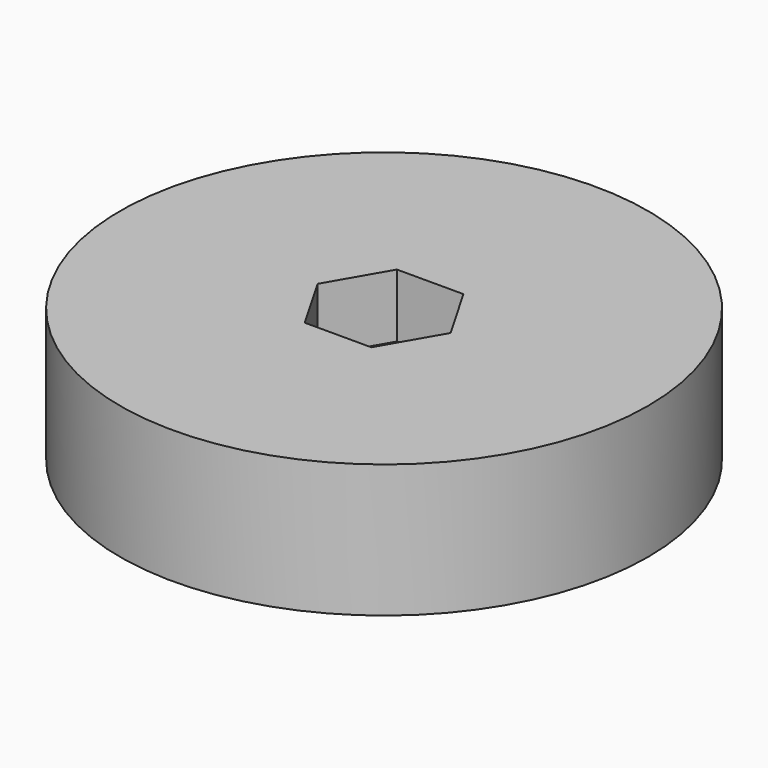
from build123d import *

# Parameters (mm, degrees)
BOX027_W          = 40
BOX027_H          = 50
BOX027_DEPTH      = 0.7
CYLINDER062_R     = 4
CYLINDER062_DEPTH = 2.75
CYLINDER019_R     = 1.6
CYLINDER019_DEPTH = 22.75
CYLINDER018_R     = 4
CYLINDER018_DEPTH = 2.75
PRISM003_DEPTH    = 3
CYLINDER017_R     = 12.5
CYLINDER017_DEPTH = 7


with BuildPart() as cube027:
    # Box027 → Box027 (new body)
    with BuildSketch(Plane(origin=(-10, 0, 15), x_dir=(1, 0, 0), z_dir=(0, 0, 1))):
        with Locations((20, 25)):
            Rectangle(BOX027_W, BOX027_H)
    extrude(amount=BOX027_DEPTH)


with BuildPart() as cylinder062:
    # Cylinder062 → Cylinder062 (new body)
    with BuildSketch(Plane(origin=(10, 20, 15.2), x_dir=(1, 0, 0), z_dir=(0, 0, 1))):
        Circle(CYLINDER062_R)
    extrude(amount=CYLINDER062_DEPTH)


with BuildPart() as cylinder018:
    # Cylinder019 → Cylinder019 (new body)
    with BuildSketch(Plane(origin=(10, 0, -31), x_dir=(1, 0, 0), z_dir=(0, 0, 1))):
        Circle(CYLINDER019_R)
    extrude(amount=CYLINDER019_DEPTH)


with BuildPart() as cylinder017:
    # Cylinder018 → Cylinder018 (new body)
    with BuildSketch(Plane(origin=(10, 0, -27), x_dir=(1, 0, 0), z_dir=(0, 0, 1))):
        Circle(CYLINDER018_R)
    extrude(amount=CYLINDER018_DEPTH)


with BuildPart() as prism003:
    # Prism003 → Prism003 (new body)
    with BuildSketch(Plane(origin=(10, 0, -20), x_dir=(1, 0, 0), z_dir=(0, 0, -1))):
        Polygon((3.15, 0), (1.575, 2.72798), (-1.575, 2.72798), (-3.15, 0), (-1.575, -2.72798), (1.575, -2.72798), align=None)
    extrude(amount=PRISM003_DEPTH)


with BuildPart() as plato_tornillo001:
    # Cylinder017 → Cylinder017 (new body)
    with BuildSketch(Plane(origin=(10, 0, -27), x_dir=(1, 0, 0), z_dir=(0, 0, 1))):
        Circle(CYLINDER017_R)
    extrude(amount=CYLINDER017_DEPTH)

    # Cut014: cut Prism003
    add(prism003.part, mode=Mode.SUBTRACT)

    # Cut015: cut Cylinder017
    add(cylinder017.part, mode=Mode.SUBTRACT)

    # Cut016: cut Cylinder018
    add(cylinder018.part, mode=Mode.SUBTRACT)


with BuildPart() as plato_tornillo001_1:
    # Cut016 placement: moved
    add(plato_tornillo001.part.moved(Location((0, 20, 42))))

    # Cut049: cut Cylinder062
    add(cylinder062.part, mode=Mode.SUBTRACT)

    # Cut050: cut Cube027
    add(cube027.part, mode=Mode.SUBTRACT)


solid = plato_tornillo001_1.part
